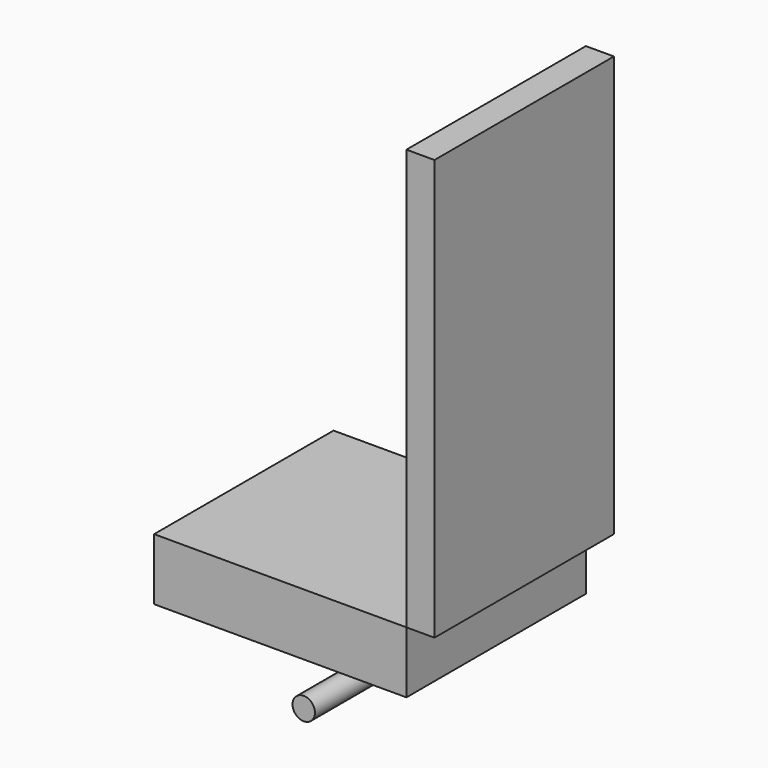
from build123d import *

# Parameters (mm, degrees)
F0_W     = 90
F0_H     = 80
F1_DEPTH = 22
F2_R     = 4
F3_DEPTH = 120
F4_W     = 80
F4_H     = 150
F5_DEPTH = 10


with BuildPart() as f1:
    # F0 (on Top) → F1 (new body)
    with BuildSketch(Plane.XY):
        with Locations((45, 40)):
            Rectangle(F0_W, F0_H)
    extrude(amount=F1_DEPTH)


with BuildPart() as f3:
    # F2 (on Front) → F3 (new body)
    with BuildSketch(Plane.XZ):
        with Locations((53.372305, -15.405996)):
            Circle(F2_R)
    extrude(amount=-F3_DEPTH)


with BuildPart() as f5:
    # F4 (on face) → F5 (new body)
    with BuildSketch(Plane.YZ.offset(90)):
        with Locations((40, 97)):
            Rectangle(F4_W, F4_H)
    extrude(amount=F5_DEPTH)


solid = Compound([f1.part, f3.part, f5.part])
